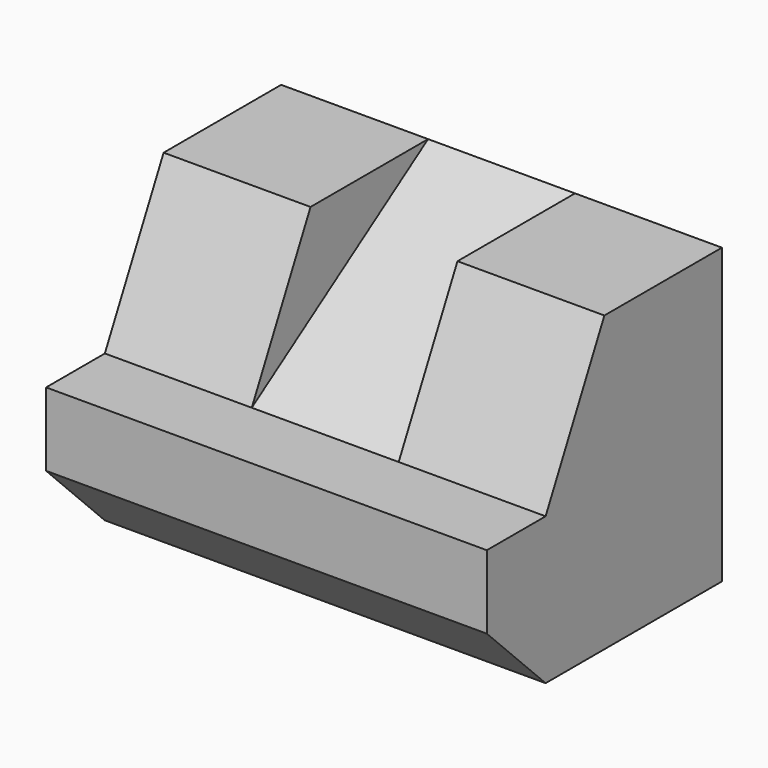
from build123d import *

# Parameters (mm, degrees)
F1_DEPTH = 15
F3_DEPTH = 5


with BuildPart() as f1:
    # F0 (on Right) → F1 (new body, symmetric)
    with BuildSketch(Plane.YZ):
        Polygon((-15, 0), (0, 0), (0, 20), (-10, 20), (-15, 10), (-20, 10), (-20, 5), align=None)
    extrude(amount=F1_DEPTH, both=True)

    # F2 (on Right) → F3 (cut, symmetric)
    with BuildSketch(Plane.YZ):
        Polygon((-10, 20), (-15, 10), (0, 20), align=None)
    extrude(amount=F3_DEPTH, both=True, mode=Mode.SUBTRACT)


solid = f1.part
